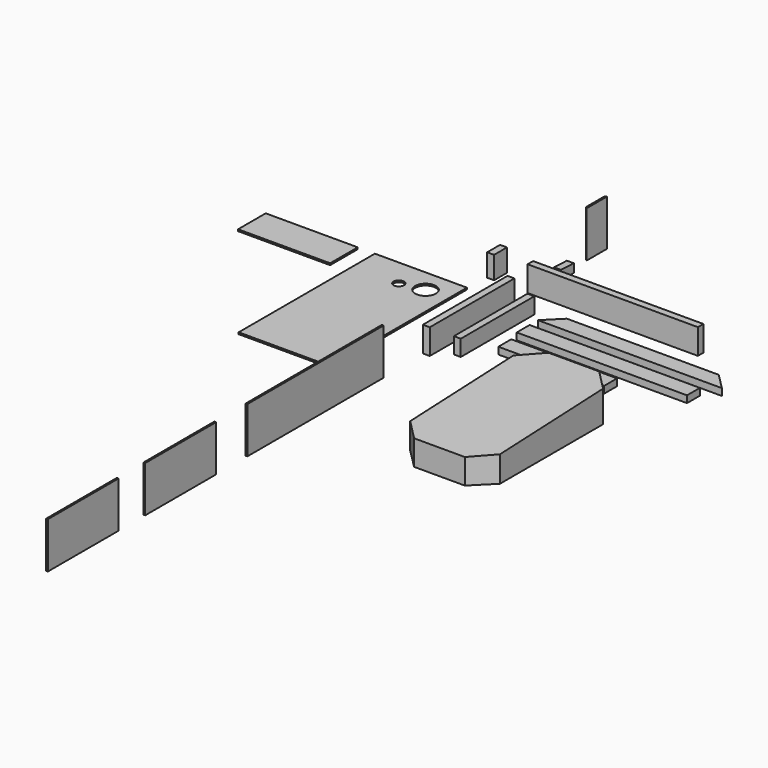
from build123d import *

# Parameters (mm, degrees)
F0_W      = 38.1
F0_H      = 139.7
F1_DEPTH  = 584.2
F2_W      = 38.1
F2_H      = 139.7
F3_DEPTH  = 939.8
F4_W      = 38.1
F4_H      = 88.9
F5_DEPTH  = 508
F6_W      = 508
F6_H      = 939.8
F7_DEPTH  = 9.525
F8_W      = 508
F8_H      = 190.5
F9_DEPTH  = 9.525
F11_DEPTH = 9.525
F12_W     = 488.95
F12_H     = 254
F13_DEPTH = 9.525
F14_W     = 488.95
F14_H     = 254
F15_DEPTH = 9.525
F17_DEPTH = 38.1
F18_W     = 939.8
F18_H     = 88.9
F19_DEPTH = 38.1
F20_W     = 584.2
F20_H     = 88.9
F21_DEPTH = 38.1
F22_W     = 38.1
F22_H     = 88.9
F23_DEPTH = 123.825
F25_DEPTH = 38.1
F26_W     = 143.6878
F26_H     = 254
F27_DEPTH = 9.525
F29_DEPTH = 254
F31_R     = 28.575
F32_DEPTH = 76.2
F33_R     = 57.3405
F34_DEPTH = 25.4
F36_DEPTH = 177.8
F38_DEPTH = 508


with BuildPart() as f1:
    # F0 (on Front) → F1 (new body)
    with BuildSketch(Plane.XZ):
        with Locations((19.05, 69.85)):
            Rectangle(F0_W, F0_H)
    extrude(amount=F1_DEPTH)


with BuildPart() as f3:
    # F2 (on Right) → F3 (new body)
    with BuildSketch(Plane.YZ):
        with Locations((157.6366101078, 69.85)):
            Rectangle(F2_W, F2_H)
    extrude(amount=F3_DEPTH)


with BuildPart() as f5:
    # F4 (on Front) → F5 (new body)
    with BuildSketch(Plane.XZ):
        with Locations((129.1061491343, 44.45)):
            Rectangle(F4_W, F4_H)
    extrude(amount=F5_DEPTH)


with BuildPart() as f7:
    # F6 (on Top) → F7 (new body)
    with BuildSketch(Plane.XY):
        with Locations((-478.0821103561, -469.9)):
            Rectangle(F6_W, F6_H)
    extrude(amount=F7_DEPTH)

    # F31 (on face) → F32 (cut)
    with BuildSketch(Plane(origin=(0, -2.0465211675, 48.828515824), x_dir=(1, 0, 0), z_dir=(0, -0.0418756537, 0.9991228301))):
        with Locations((-478.0821103561, -152.0011343982)):
            Circle(F31_R)
    extrude(amount=-F32_DEPTH, mode=Mode.SUBTRACT)

    # F33 (on face) → F34 (cut)
    with BuildSketch(Plane.XY.offset(9.525)):
        with Locations((-351.0821103561, -127)):
            Circle(F33_R)
    extrude(amount=-F34_DEPTH, mode=Mode.SUBTRACT)


with BuildPart() as f9:
    # F8 (on Top) → F9 (new body)
    with BuildSketch(Plane.XY):
        with Locations((-1080.8238734909, -95.25)):
            Rectangle(F8_W, F8_H)
    extrude(amount=F9_DEPTH)


with BuildPart() as f11:
    # F10 (on Right) → F11 (new body)
    with BuildSketch(Plane.YZ):
        Polygon((-1616.2810644211, 0), (-866.9810644211, 0), (-866.9810644211, 254), (-1806.7810644211, 254), (-1806.7810644211, 0), align=None)
    extrude(amount=F11_DEPTH)


with BuildPart() as f13:
    # F12 (on Right) → F13 (new body)
    with BuildSketch(Plane.YZ):
        with Locations((-2266.9705320059, 127)):
            Rectangle(F12_W, F12_H)
    extrude(amount=F13_DEPTH)


with BuildPart() as f15:
    # F14 (on Right) → F15 (new body)
    with BuildSketch(Plane.YZ):
        with Locations((-2939.2763446808, 127)):
            Rectangle(F14_W, F14_H)
    extrude(amount=F15_DEPTH)


with BuildPart() as f17:
    # F16 (on Top) → F17 (new body)
    with BuildSketch(Plane.XY):
        Polygon((1165.5650138855, 0), (327.3650138855, 0), (238.4650138855, -88.9), (1254.4650138855, -88.9), align=None)
    extrude(amount=F17_DEPTH)


with BuildPart() as f19:
    # F18 (on Top) → F19 (new body)
    with BuildSketch(Plane.XY):
        with Locations((708.8293251634, -190.7424614228)):
            Rectangle(F18_W, F18_H)
    extrude(amount=F19_DEPTH)


with BuildPart() as f21:
    # F20 (on Top) → F21 (new body)
    with BuildSketch(Plane.XY):
        with Locations((552.5514217973, -344.4653765084)):
            Rectangle(F20_W, F20_H)
    extrude(amount=F21_DEPTH)


with BuildPart() as f23:
    # F22 (on Top) → F23 (new body)
    with BuildSketch(Plane.XY):
        with Locations((-206.0373872519, 185.4401671906)):
            Rectangle(F22_W, F22_H)
    extrude(amount=F23_DEPTH)


with BuildPart() as f25:
    # F24 (on Right) → F25 (new body)
    with BuildSketch(Plane.YZ):
        Polygon((320.7268421526, 50.8), (320.7268421526, 0), (409.6268421526, 0), (409.6268421526, 47.0739860362), align=None)
    extrude(amount=F25_DEPTH)


with BuildPart() as f27:
    # F26 (on Right) → F27 (new body)
    with BuildSketch(Plane.YZ):
        with Locations((604.1324300841, 127)):
            Rectangle(F26_W, F26_H)
    extrude(amount=F27_DEPTH)

    # F28 (on face) → F29 (cut)
    with BuildSketch(Plane.XY.offset(254)):
        Polygon((0, 666.4513300841), (9.525, 675.9763300841), (0, 675.9763300841), align=None)
        Polygon((0, 532.2885300841), (9.525, 532.2885300841), (0, 541.8135300841), align=None)
    extrude(amount=-F29_DEPTH, mode=Mode.SUBTRACT)


with BuildPart() as f36:
    # F35 (on Top) → F36 (new body)
    with BuildSketch(Plane.XY):
        Polygon((1019.3269744234, -614.8785839685), (911.5639009706, -507.1155105157), (631.7900478763, -507.1155105157), (524.0269744234, -614.8785839685), (524.0269744234, -1326.4524370629), (631.7900478763, -1434.2155105157), (911.5639009706, -1434.2155105157), (1019.3269744234, -1326.4524370629), align=None)
    extrude(amount=F36_DEPTH)

    # F37 (on face) → F38 (cut)
    with BuildSketch(Plane.YZ.offset(1019.3269744234)):
        Polygon((-504.7124624252, 177.8), (-614.8785839685, 177.8), (-614.8785839685, 173.1826714599), align=None)
        Polygon((-614.8785839685, 173.1826714599), (-614.8785839685, 177.8), (-1326.4524370629, 177.8), (-1326.4524370629, 143.3588906622), align=None)
        Polygon((-1326.4524370629, 143.3588906622), (-1326.4524370629, 177.8), (-1456.6290378571, 177.8), (-1454.3387185189, 137.9988673721), align=None)
    extrude(amount=-F38_DEPTH, mode=Mode.SUBTRACT)


solid = Compound([f1.part, f3.part, f5.part, f7.part, f9.part, f11.part, f13.part, f15.part, f17.part, f19.part, f21.part, f23.part, f25.part, f27.part, f36.part])
